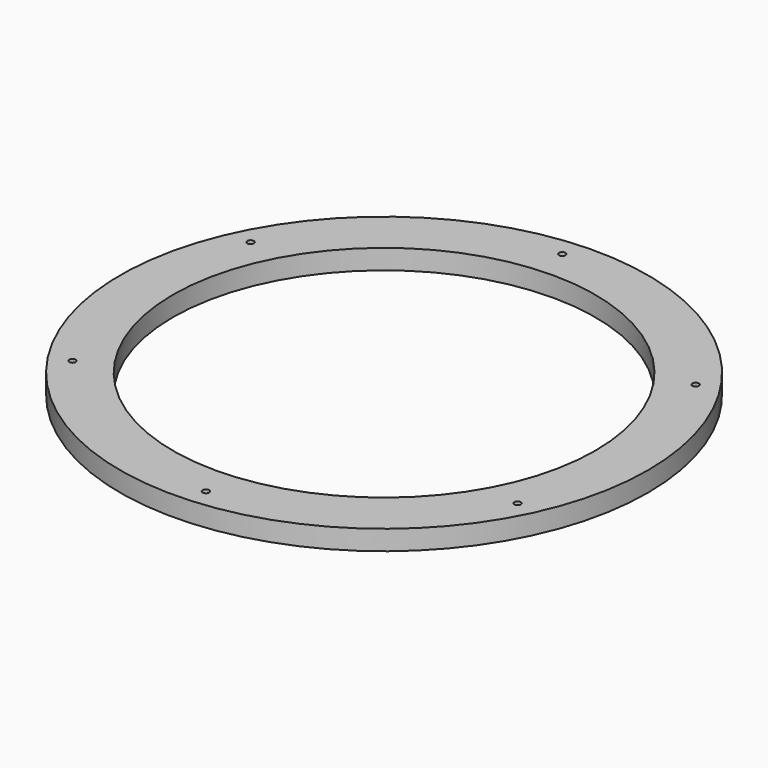
from build123d import *

# Parameters (mm, degrees)
F0_R     = 254
F0_R_2   = 203.2
F1_DEPTH = 19.05


with BuildPart() as f1:
    # F0 (on Top) → F1 (new body)
    with BuildSketch(Plane.XY):
        Circle(F0_R)
        with BuildLine():
            ThreePointArc((196.7011125508, 128.4919251209), (225.1848450649, 67.0319927579), (234.95, 0))
            ThreePointArc((234.95, 0), (229.2479499847, -51.4478369596), (212.4185683948, -100.3984775836))
            ThreePointArc((212.4185683948, -100.3984775836), (213.7303800146, -101.5698688542), (214.2174677682, -103.259766116))
            ThreePointArc((214.2174677682, -103.259766116), (212.7141648851, -105.9590352298), (209.6278276113, -106.1021978612))
            ThreePointArc((209.6278276113, -106.1021978612), (131.1382553066, -194.9468145294), (19.2616521087, -234.1591152572))
            ThreePointArc((19.2616521087, -234.1591152572), (19.2684021583, -234.2784835874), (19.2706532388, -234.3980214226))
            ThreePointArc((19.2706532388, -234.3980214226), (16.1937508526, -237.5715056053), (12.9267150604, -234.5941229821))
            ThreePointArc((12.9267150604, -234.5941229821), (-103.259766116, -211.0424677682), (-193.1569162861, -133.7606376736))
            ThreePointArc((-193.1569162861, -133.7606376736), (-197.5812309419, -132.9103938918), (-196.7011125508, -128.4919251209))
            ThreePointArc((-196.7011125508, -128.4919251209), (-234.3980214226, -16.0956532388), (-212.4185683948, 100.3984775836))
            ThreePointArc((-212.4185683948, 100.3984775836), (-213.8943930083, 104.6551683608), (-209.6278276113, 106.1021978612))
            ThreePointArc((-209.6278276113, 106.1021978612), (-131.1382553066, 194.9468145294), (-19.2616521087, 234.1591152572))
            ThreePointArc((-19.2616521087, 234.1591152572), (-16.3131620664, 237.5655622526), (-12.9267150604, 234.5941229821))
            ThreePointArc((-12.9267150604, 234.5941229821), (103.259766116, 211.0424677682), (193.1569162861, 133.7606376736))
            ThreePointArc((193.1569162861, 133.7606376736), (196.4296661871, 133.9457053883), (198.1218145294, 131.1382553066))
            ThreePointArc((198.1218145294, 131.1382553066), (197.744181257, 129.6364682408), (196.7011125508, 128.4919251209))
        make_face(mode=Mode.SUBTRACT)
        with BuildLine():
            ThreePointArc((212.4185683948, -100.3984775836), (229.2479499847, -51.4478369596), (234.95, 0))
            ThreePointArc((234.95, 0), (225.1848450649, 67.0319927579), (196.7011125508, 128.4919251209))
            ThreePointArc((196.7011125508, 128.4919251209), (192.3123981168, 129.3661167214), (193.1569162861, 133.7606376736))
            ThreePointArc((193.1569162861, 133.7606376736), (103.259766116, 211.0424677682), (-12.9267150604, 234.5941229821))
            ThreePointArc((-12.9267150604, 234.5941229821), (-12.9221690561, 234.4961190364), (-12.9206532388, 234.3980214226))
            ThreePointArc((-12.9206532388, 234.3980214226), (-15.9761154036, 231.2252725031), (-19.2616521087, 234.1591152572))
            ThreePointArc((-19.2616521087, 234.1591152572), (-131.1382553066, 194.9468145294), (-209.6278276113, 106.1021978612))
            ThreePointArc((-209.6278276113, 106.1021978612), (-208.3431986543, 104.931463233), (-207.8674677682, 103.259766116))
            ThreePointArc((-207.8674677682, 103.259766116), (-209.3525705064, 100.5718538695), (-212.4185683948, 100.3984775836))
            ThreePointArc((-212.4185683948, 100.3984775836), (-234.3980214226, -16.0956532388), (-196.7011125508, -128.4919251209))
            ThreePointArc((-196.7011125508, -128.4919251209), (-193.4450274636, -128.3408885789), (-191.7718145294, -131.1382553066))
            ThreePointArc((-191.7718145294, -131.1382553066), (-192.1393644477, -132.6211069643), (-193.1569162861, -133.7606376736))
            ThreePointArc((-193.1569162861, -133.7606376736), (-103.259766116, -211.0424677682), (12.9267150604, -234.5941229821))
            ThreePointArc((12.9267150604, -234.5941229821), (15.8781444113, -231.2304805925), (19.2616521087, -234.1591152572))
            ThreePointArc((19.2616521087, -234.1591152572), (131.1382553066, -194.9468145294), (209.6278276113, -106.1021978612))
            ThreePointArc((209.6278276113, -106.1021978612), (208.190542528, -101.8643638712), (212.4185683948, -100.3984775836))
        make_face()
        Circle(F0_R_2, mode=Mode.SUBTRACT)
    extrude(amount=F1_DEPTH)


solid = f1.part
